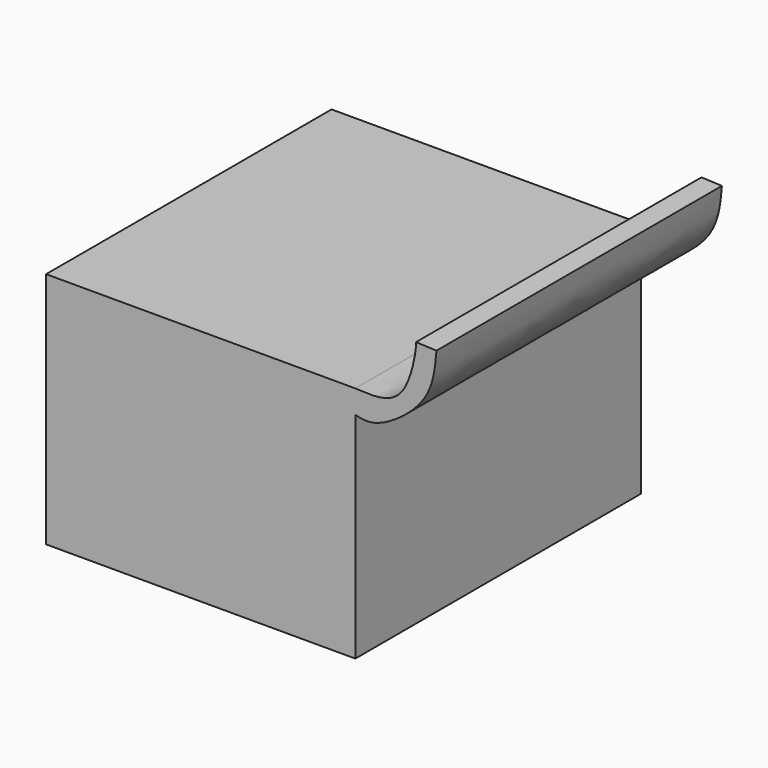
from build123d import *

# Parameters (mm, degrees)
F1_DEPTH = 150


with BuildPart() as f1:
    # F0 (on Front) → F1 (new body)
    with BuildSketch(Plane.XZ):
        with BuildLine():
            Line((66.5512742102, 53.22832472), (-63.4487257898, 53.22832472))
            Line((-63.4487257898, 53.22832472), (-63.4487257898, -46.77167528))
            Line((-63.4487257898, -46.77167528), (66.5512742102, -46.77167528))
            Line((66.5512742102, -46.77167528), (66.5512742102, 43.4356927872))
            add(Edge.make_bspline(
                [(66.5512742102, 43.4356927872), (69.0458437789, 42.8412241475), (75.8185758553, 41.2272475823), (98.8077186481, 57.2419967752), (100.0567297058, 71.5116963556), (100.6503552198, 78.2937481999)],
                knots=[0, 0, 0, 0, 0.2342815252, 0.6360720585, 1, 1, 1, 1], degree=3))
            Line((100.6503552198, 78.2937481999), (92.0727178454, 78.6587521434))
            add(Edge.make_bspline(
                [(66.5512742102, 53.22832472), (74.1004513767, 52.7601957711), (89.292724355, 51.8181139225), (92.4721770478, 78.2514275942), (92.0727178454, 78.6587521434)],
                knots=[0, 0, 0, 0, 0.4706037901, 0.9470623203, 0.9470623203, 0.9470623203, 0.9470623203], degree=3))
        make_face()
    extrude(amount=F1_DEPTH)


solid = f1.part
